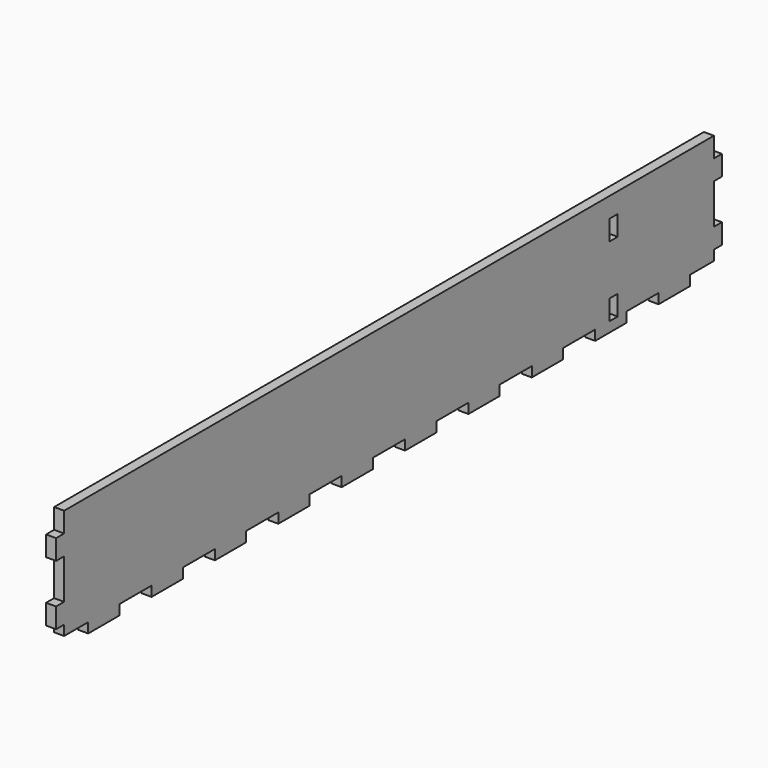
from build123d import *

# Parameters (mm, degrees)
F0_W     = 527.05
F0_H     = 76.2
F1_DEPTH = 6.35
F2_W     = 6.35
F2_H     = 6.35
F2_W_2   = 25.4
F2_H_2   = 12.7
F2_H_3   = 25.4
F3_DEPTH = 6.35
F4_W     = 6.35
F4_H     = 12.7
F5_DEPTH = 25.4


with BuildPart() as f1:
    # F0 (on Right) → F1 (new body)
    with BuildSketch(Plane.YZ):
        Rectangle(F0_W, F0_H)
    extrude(amount=F1_DEPTH)

    # F2 (on face) → F3 (cut, through all)
    with BuildSketch(Plane.YZ.offset(6.35)):
        Polygon((-263.525, -31.75), (-263.525, -38.1), (-238.125, -38.1), (-238.125, -31.75), (-257.175, -31.75), align=None)
        with Locations((-260.35, -28.575)):
            Rectangle(F2_W, F2_H)
        with Locations((-200.66, -34.925)):
            Rectangle(F2_W_2, F2_H)
        with Locations((-150.495, -34.925)):
            Rectangle(F2_W_2, F2_H)
        with Locations((-100.33, -34.925)):
            Rectangle(F2_W_2, F2_H)
        with Locations((-50.165, -34.925)):
            Rectangle(F2_W_2, F2_H)
        with Locations((0, -34.925)):
            Rectangle(F2_W_2, F2_H)
        with Locations((50.165, -34.925)):
            Rectangle(F2_W_2, F2_H)
        with Locations((100.33, -34.925)):
            Rectangle(F2_W_2, F2_H)
        with Locations((150.495, -34.925)):
            Rectangle(F2_W_2, F2_H)
        with Locations((200.66, -34.925)):
            Rectangle(F2_W_2, F2_H)
        Polygon((238.125, -31.75), (238.125, -38.1), (263.525, -38.1), (263.525, -31.75), (257.175, -31.75), align=None)
        with Locations((260.35, -28.575)):
            Rectangle(F2_W, F2_H)
        with Locations((-260.35, 31.75)):
            Rectangle(F2_W, F2_H_2)
        with Locations((-260.35, 0)):
            Rectangle(F2_W, F2_H_3)
        with Locations((260.35, 31.75)):
            Rectangle(F2_W, F2_H_2)
        with Locations((260.35, 0)):
            Rectangle(F2_W, F2_H_3)
    extrude(amount=-F3_DEPTH, mode=Mode.SUBTRACT)

    # F4 (on face) → F5 (cut)
    with BuildSketch(Plane.YZ.offset(6.35)):
        with Locations((177.8, 19.05)):
            Rectangle(F4_W, F4_H)
        with Locations((177.8, -25.4)):
            Rectangle(F4_W, F4_H)
    extrude(amount=-F5_DEPTH, mode=Mode.SUBTRACT)


solid = f1.part
